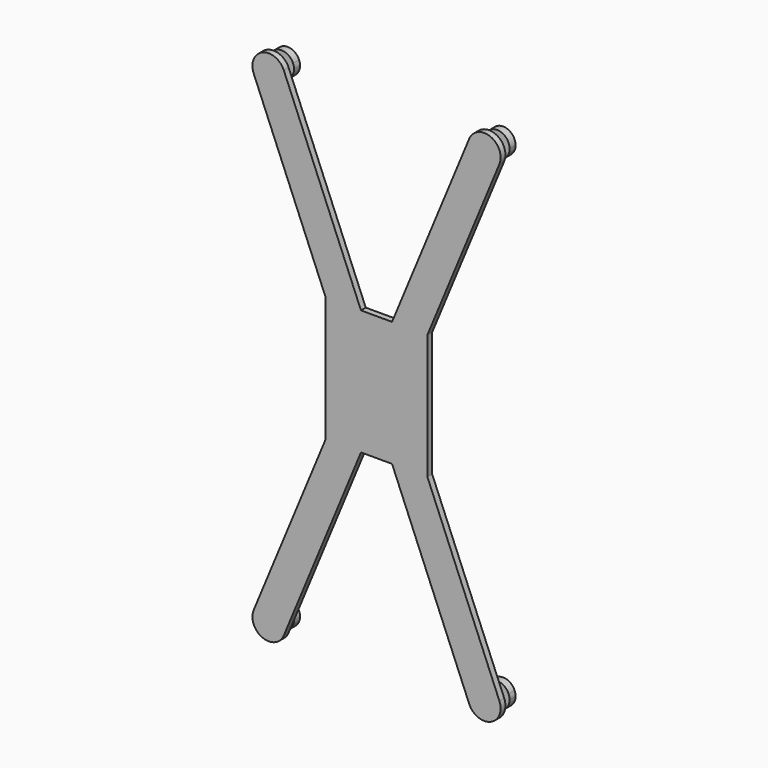
from build123d import *

# Parameters (mm, degrees)
F1_DEPTH = 1.2
F2_DEPTH = 3.5
F3_DEPTH = 2


with BuildPart() as f1:
    # F0 (on Front) → F1 (new body)
    with BuildSketch(Plane.XZ):
        with BuildLine():
            ThreePointArc((-19.2441250379, 49.4567085809), (-22.5105324501, 50.8096988313), (-23.8635227004, 47.5432914191))
            Line((-23.8635227004, 47.5432914191), (-22.1081515887, 48.2703899406))
            ThreePointArc((-22.1081515887, 48.2703899406), (-21.7834339286, 49.0543277195), (-20.9994961497, 48.7296100594))
            Line((-20.9994961497, 48.7296100594), (-19.2441250379, 49.4567085809))
        make_face()
        with BuildLine():
            Line((-22.1081515887, 48.2703899406), (-23.8635227004, 47.5432914191))
            ThreePointArc((-23.8635227004, 47.5432914191), (-21.0660980641, 46.048036799), (-19.0538238692, 48.5))
            ThreePointArc((-19.0538238692, 48.5), (-19.1018606682, 48.987725805), (-19.2441250379, 49.4567085809))
            Line((-19.2441250379, 49.4567085809), (-20.9994961497, 48.7296100594))
            ThreePointArc((-20.9994961497, 48.7296100594), (-20.9653527009, 48.6170541932), (-20.9538238692, 48.5))
            ThreePointArc((-20.9538238692, 48.5), (-21.436769676, 47.9115288318), (-22.1081515887, 48.2703899406))
        make_face()
        with BuildLine():
            Line((-20.9994961497, 48.7296100594), (-22.1081515887, 48.2703899406))
            ThreePointArc((-22.1081515887, 48.2703899406), (-21.436769676, 47.9115288318), (-20.9538238692, 48.5))
            ThreePointArc((-20.9538238692, 48.5), (-20.9653527009, 48.6170541932), (-20.9994961497, 48.7296100594))
        make_face()
        with BuildLine():
            ThreePointArc((-20.9994961497, 48.7296100594), (-21.7834339286, 49.0543277195), (-22.1081515887, 48.2703899406))
            Line((-22.1081515887, 48.2703899406), (-20.9994961497, 48.7296100594))
        make_face()
        with BuildLine():
            ThreePointArc((22.1538238692, 48.5), (21.6708780624, 49.0884711682), (20.9994961497, 48.7296100594))
            Line((20.9994961497, 48.7296100594), (22.1081515887, 48.2703899406))
            ThreePointArc((22.1081515887, 48.2703899406), (22.1422950374, 48.3829458068), (22.1538238692, 48.5))
        make_face()
        with BuildLine():
            ThreePointArc((24.0538238692, 48.5), (22.0415496742, 50.951963201), (19.2441250379, 49.4567085809))
            Line((19.2441250379, 49.4567085809), (20.9994961497, 48.7296100594))
            ThreePointArc((20.9994961497, 48.7296100594), (21.6708780624, 49.0884711682), (22.1538238692, 48.5))
            ThreePointArc((22.1538238692, 48.5), (22.1422950374, 48.3829458068), (22.1081515887, 48.2703899406))
            Line((22.1081515887, 48.2703899406), (23.8635227004, 47.5432914191))
            ThreePointArc((23.8635227004, 47.5432914191), (24.0057870702, 48.012274195), (24.0538238692, 48.5))
        make_face()
        with BuildLine():
            Line((20.9994961497, 48.7296100594), (19.2441250379, 49.4567085809))
            ThreePointArc((19.2441250379, 49.4567085809), (20.5971152882, 46.1903011687), (23.8635227004, 47.5432914191))
            Line((23.8635227004, 47.5432914191), (22.1081515887, 48.2703899406))
            ThreePointArc((22.1081515887, 48.2703899406), (21.3242138097, 47.9456722805), (20.9994961497, 48.7296100594))
        make_face()
        with BuildLine():
            Line((22.1081515887, 48.2703899406), (20.9994961497, 48.7296100594))
            ThreePointArc((20.9994961497, 48.7296100594), (21.3242138097, 47.9456722805), (22.1081515887, 48.2703899406))
        make_face()
        with BuildLine():
            Line((-22.1081515887, -48.2703899406), (-23.8635227004, -47.5432914191))
            ThreePointArc((-23.8635227004, -47.5432914191), (-22.5105324501, -50.8096988313), (-19.2441250379, -49.4567085809))
            Line((-19.2441250379, -49.4567085809), (-20.9994961497, -48.7296100594))
            ThreePointArc((-20.9994961497, -48.7296100594), (-21.7834339286, -49.0543277195), (-22.1081515887, -48.2703899406))
        make_face()
        with BuildLine():
            Line((-20.9994961497, -48.7296100594), (-22.1081515887, -48.2703899406))
            ThreePointArc((-22.1081515887, -48.2703899406), (-21.7834339286, -49.0543277195), (-20.9994961497, -48.7296100594))
        make_face()
        with BuildLine():
            ThreePointArc((-20.9538238692, -48.5), (-21.436769676, -47.9115288318), (-22.1081515887, -48.2703899406))
            Line((-22.1081515887, -48.2703899406), (-20.9994961497, -48.7296100594))
            ThreePointArc((-20.9994961497, -48.7296100594), (-20.9653527009, -48.6170541932), (-20.9538238692, -48.5))
        make_face()
        with BuildLine():
            ThreePointArc((-19.0538238692, -48.5), (-21.0660980641, -46.048036799), (-23.8635227004, -47.5432914191))
            Line((-23.8635227004, -47.5432914191), (-22.1081515887, -48.2703899406))
            ThreePointArc((-22.1081515887, -48.2703899406), (-21.436769676, -47.9115288318), (-20.9538238692, -48.5))
            ThreePointArc((-20.9538238692, -48.5), (-20.9653527009, -48.6170541932), (-20.9994961497, -48.7296100594))
            Line((-20.9994961497, -48.7296100594), (-19.2441250379, -49.4567085809))
            ThreePointArc((-19.2441250379, -49.4567085809), (-19.1018606682, -48.987725805), (-19.0538238692, -48.5))
        make_face()
        with BuildLine():
            ThreePointArc((23.8635227004, -47.5432914191), (20.5971152882, -46.1903011687), (19.2441250379, -49.4567085809))
            Line((19.2441250379, -49.4567085809), (20.9994961497, -48.7296100594))
            ThreePointArc((20.9994961497, -48.7296100594), (21.3242138097, -47.9456722805), (22.1081515887, -48.2703899406))
            Line((22.1081515887, -48.2703899406), (23.8635227004, -47.5432914191))
        make_face()
        with BuildLine():
            Line((20.9994961497, -48.7296100594), (19.2441250379, -49.4567085809))
            ThreePointArc((19.2441250379, -49.4567085809), (22.0415496742, -50.951963201), (24.0538238692, -48.5))
            ThreePointArc((24.0538238692, -48.5), (24.0057870702, -48.012274195), (23.8635227004, -47.5432914191))
            Line((23.8635227004, -47.5432914191), (22.1081515887, -48.2703899406))
            ThreePointArc((22.1081515887, -48.2703899406), (22.1422950374, -48.3829458068), (22.1538238692, -48.5))
            ThreePointArc((22.1538238692, -48.5), (21.6708780624, -49.0884711682), (20.9994961497, -48.7296100594))
        make_face()
        with BuildLine():
            Line((22.1081515887, -48.2703899406), (20.9994961497, -48.7296100594))
            ThreePointArc((20.9994961497, -48.7296100594), (21.6708780624, -49.0884711682), (22.1538238692, -48.5))
            ThreePointArc((22.1538238692, -48.5), (22.1422950374, -48.3829458068), (22.1081515887, -48.2703899406))
        make_face()
        with BuildLine():
            ThreePointArc((22.1081515887, -48.2703899406), (21.3242138097, -47.9456722805), (20.9994961497, -48.7296100594))
            Line((20.9994961497, -48.7296100594), (22.1081515887, -48.2703899406))
        make_face()
        Polygon((-10.1776695297, 12.5), (-5, 0), (-10.1776695297, -12.5), (-3.1066017178, -12.5), (0, -5), (3.1066017178, -12.5), (10.1776695297, -12.5), (5, 0), (10.1776695297, 12.5), (3.1066017178, 12.5), (0, 5), (-3.1066017178, 12.5), align=None)
        with BuildLine():
            Line((-24.5715908221, 47.25), (-10.1776695297, 12.5))
            Line((-10.1776695297, 12.5), (-3.1066017178, 12.5))
            Line((-3.1066017178, 12.5), (-18.5360569162, 49.75))
            Line((-18.5360569162, 49.75), (-19.2441250379, 49.4567085809))
            ThreePointArc((-19.2441250379, 49.4567085809), (-19.1018606682, 48.987725805), (-19.0538238692, 48.5))
            ThreePointArc((-19.0538238692, 48.5), (-21.0660980641, 46.048036799), (-23.8635227004, 47.5432914191))
            Line((-23.8635227004, 47.5432914191), (-24.5715908221, 47.25))
        make_face()
        with BuildLine():
            ThreePointArc((-18.5360569162, 49.75), (-22.8038238692, 51.517766953), (-24.5715908221, 47.25))
            Line((-24.5715908221, 47.25), (-23.8635227004, 47.5432914191))
            ThreePointArc((-23.8635227004, 47.5432914191), (-22.5105324501, 50.8096988313), (-19.2441250379, 49.4567085809))
            Line((-19.2441250379, 49.4567085809), (-18.5360569162, 49.75))
        make_face()
        with BuildLine():
            ThreePointArc((24.5715908221, 47.25), (22.8038238692, 51.517766953), (18.5360569162, 49.75))
            Line((18.5360569162, 49.75), (19.2441250379, 49.4567085809))
            ThreePointArc((19.2441250379, 49.4567085809), (22.0415496742, 50.951963201), (24.0538238692, 48.5))
            ThreePointArc((24.0538238692, 48.5), (24.0057870702, 48.012274195), (23.8635227004, 47.5432914191))
            Line((23.8635227004, 47.5432914191), (24.5715908221, 47.25))
        make_face()
        with BuildLine():
            Line((-23.8635227004, -47.5432914191), (-24.5715908221, -47.25))
            ThreePointArc((-24.5715908221, -47.25), (-22.8038238692, -51.517766953), (-18.5360569162, -49.75))
            Line((-18.5360569162, -49.75), (-19.2441250379, -49.4567085809))
            ThreePointArc((-19.2441250379, -49.4567085809), (-22.5105324501, -50.8096988313), (-23.8635227004, -47.5432914191))
        make_face()
        with BuildLine():
            Line((19.2441250379, -49.4567085809), (18.5360569162, -49.75))
            ThreePointArc((18.5360569162, -49.75), (22.8038238692, -51.517766953), (24.5715908221, -47.25))
            Line((24.5715908221, -47.25), (23.8635227004, -47.5432914191))
            ThreePointArc((23.8635227004, -47.5432914191), (24.0057870702, -48.012274195), (24.0538238692, -48.5))
            ThreePointArc((24.0538238692, -48.5), (22.0415496742, -50.951963201), (19.2441250379, -49.4567085809))
        make_face()
        Polygon((-10.1776695297, -12.5), (-5, 0), (-10.1776695297, 12.5), align=None)
        Polygon((-10.1776695297, 12.5), (-5, 0), (-10.1776695297, -12.5), (-3.1066017178, -12.5), (0, -5), (3.1066017178, -12.5), (10.1776695297, -12.5), (5, 0), (10.1776695297, 12.5), (3.1066017178, 12.5), (0, 5), (-3.1066017178, 12.5), align=None)
        Polygon((3.1066017178, 12.5), (-3.1066017178, 12.5), (0, 5), align=None)
        with BuildLine():
            Line((18.5360569162, 49.75), (3.1066017178, 12.5))
            Line((3.1066017178, 12.5), (10.1776695297, 12.5))
            Line((10.1776695297, 12.5), (24.5715908221, 47.25))
            Line((24.5715908221, 47.25), (23.8635227004, 47.5432914191))
            ThreePointArc((23.8635227004, 47.5432914191), (20.5971152882, 46.1903011687), (19.2441250379, 49.4567085809))
            Line((19.2441250379, 49.4567085809), (18.5360569162, 49.75))
        make_face()
        Polygon((10.1776695297, -12.5), (10.1776695297, 12.5), (5, 0), align=None)
        Polygon((0, -5), (-3.1066017178, -12.5), (3.1066017178, -12.5), align=None)
        with BuildLine():
            Line((10.1776695297, -12.5), (3.1066017178, -12.5))
            Line((3.1066017178, -12.5), (18.5360569162, -49.75))
            Line((18.5360569162, -49.75), (19.2441250379, -49.4567085809))
            ThreePointArc((19.2441250379, -49.4567085809), (20.5971152882, -46.1903011687), (23.8635227004, -47.5432914191))
            Line((23.8635227004, -47.5432914191), (24.5715908221, -47.25))
            Line((24.5715908221, -47.25), (10.1776695297, -12.5))
        make_face()
        with BuildLine():
            Line((-3.1066017178, -12.5), (-10.1776695297, -12.5))
            Line((-10.1776695297, -12.5), (-24.5715908221, -47.25))
            Line((-24.5715908221, -47.25), (-23.8635227004, -47.5432914191))
            ThreePointArc((-23.8635227004, -47.5432914191), (-21.0660980641, -46.048036799), (-19.0538238692, -48.5))
            ThreePointArc((-19.0538238692, -48.5), (-19.1018606682, -48.987725805), (-19.2441250379, -49.4567085809))
            Line((-19.2441250379, -49.4567085809), (-18.5360569162, -49.75))
            Line((-18.5360569162, -49.75), (-3.1066017178, -12.5))
        make_face()
    extrude(amount=F1_DEPTH)

    # F0 (on Front) → F2 (join)
    with BuildSketch(Plane.XZ):
        with BuildLine():
            ThreePointArc((24.0538238692, 48.5), (22.0415496742, 50.951963201), (19.2441250379, 49.4567085809))
            Line((19.2441250379, 49.4567085809), (20.9994961497, 48.7296100594))
            ThreePointArc((20.9994961497, 48.7296100594), (21.6708780624, 49.0884711682), (22.1538238692, 48.5))
            ThreePointArc((22.1538238692, 48.5), (22.1422950374, 48.3829458068), (22.1081515887, 48.2703899406))
            Line((22.1081515887, 48.2703899406), (23.8635227004, 47.5432914191))
            ThreePointArc((23.8635227004, 47.5432914191), (24.0057870702, 48.012274195), (24.0538238692, 48.5))
        make_face()
        with BuildLine():
            Line((20.9994961497, 48.7296100594), (19.2441250379, 49.4567085809))
            ThreePointArc((19.2441250379, 49.4567085809), (20.5971152882, 46.1903011687), (23.8635227004, 47.5432914191))
            Line((23.8635227004, 47.5432914191), (22.1081515887, 48.2703899406))
            ThreePointArc((22.1081515887, 48.2703899406), (21.3242138097, 47.9456722805), (20.9994961497, 48.7296100594))
        make_face()
        with BuildLine():
            ThreePointArc((-19.2441250379, 49.4567085809), (-22.5105324501, 50.8096988313), (-23.8635227004, 47.5432914191))
            Line((-23.8635227004, 47.5432914191), (-22.1081515887, 48.2703899406))
            ThreePointArc((-22.1081515887, 48.2703899406), (-21.7834339286, 49.0543277195), (-20.9994961497, 48.7296100594))
            Line((-20.9994961497, 48.7296100594), (-19.2441250379, 49.4567085809))
        make_face()
        with BuildLine():
            Line((-22.1081515887, 48.2703899406), (-23.8635227004, 47.5432914191))
            ThreePointArc((-23.8635227004, 47.5432914191), (-21.0660980641, 46.048036799), (-19.0538238692, 48.5))
            ThreePointArc((-19.0538238692, 48.5), (-19.1018606682, 48.987725805), (-19.2441250379, 49.4567085809))
            Line((-19.2441250379, 49.4567085809), (-20.9994961497, 48.7296100594))
            ThreePointArc((-20.9994961497, 48.7296100594), (-20.9653527009, 48.6170541932), (-20.9538238692, 48.5))
            ThreePointArc((-20.9538238692, 48.5), (-21.436769676, 47.9115288318), (-22.1081515887, 48.2703899406))
        make_face()
        with BuildLine():
            ThreePointArc((-19.0538238692, -48.5), (-21.0660980641, -46.048036799), (-23.8635227004, -47.5432914191))
            Line((-23.8635227004, -47.5432914191), (-22.1081515887, -48.2703899406))
            ThreePointArc((-22.1081515887, -48.2703899406), (-21.436769676, -47.9115288318), (-20.9538238692, -48.5))
            ThreePointArc((-20.9538238692, -48.5), (-20.9653527009, -48.6170541932), (-20.9994961497, -48.7296100594))
            Line((-20.9994961497, -48.7296100594), (-19.2441250379, -49.4567085809))
            ThreePointArc((-19.2441250379, -49.4567085809), (-19.1018606682, -48.987725805), (-19.0538238692, -48.5))
        make_face()
        with BuildLine():
            Line((-22.1081515887, -48.2703899406), (-23.8635227004, -47.5432914191))
            ThreePointArc((-23.8635227004, -47.5432914191), (-22.5105324501, -50.8096988313), (-19.2441250379, -49.4567085809))
            Line((-19.2441250379, -49.4567085809), (-20.9994961497, -48.7296100594))
            ThreePointArc((-20.9994961497, -48.7296100594), (-21.7834339286, -49.0543277195), (-22.1081515887, -48.2703899406))
        make_face()
        with BuildLine():
            Line((20.9994961497, -48.7296100594), (19.2441250379, -49.4567085809))
            ThreePointArc((19.2441250379, -49.4567085809), (22.0415496742, -50.951963201), (24.0538238692, -48.5))
            ThreePointArc((24.0538238692, -48.5), (24.0057870702, -48.012274195), (23.8635227004, -47.5432914191))
            Line((23.8635227004, -47.5432914191), (22.1081515887, -48.2703899406))
            ThreePointArc((22.1081515887, -48.2703899406), (22.1422950374, -48.3829458068), (22.1538238692, -48.5))
            ThreePointArc((22.1538238692, -48.5), (21.6708780624, -49.0884711682), (20.9994961497, -48.7296100594))
        make_face()
        with BuildLine():
            ThreePointArc((23.8635227004, -47.5432914191), (20.5971152882, -46.1903011687), (19.2441250379, -49.4567085809))
            Line((19.2441250379, -49.4567085809), (20.9994961497, -48.7296100594))
            ThreePointArc((20.9994961497, -48.7296100594), (21.3242138097, -47.9456722805), (22.1081515887, -48.2703899406))
            Line((22.1081515887, -48.2703899406), (23.8635227004, -47.5432914191))
        make_face()
        with BuildLine():
            Line((22.1081515887, -48.2703899406), (20.9994961497, -48.7296100594))
            ThreePointArc((20.9994961497, -48.7296100594), (21.6708780624, -49.0884711682), (22.1538238692, -48.5))
            ThreePointArc((22.1538238692, -48.5), (22.1422950374, -48.3829458068), (22.1081515887, -48.2703899406))
        make_face()
        with BuildLine():
            ThreePointArc((22.1081515887, -48.2703899406), (21.3242138097, -47.9456722805), (20.9994961497, -48.7296100594))
            Line((20.9994961497, -48.7296100594), (22.1081515887, -48.2703899406))
        make_face()
        with BuildLine():
            ThreePointArc((22.1538238692, 48.5), (21.6708780624, 49.0884711682), (20.9994961497, 48.7296100594))
            Line((20.9994961497, 48.7296100594), (22.1081515887, 48.2703899406))
            ThreePointArc((22.1081515887, 48.2703899406), (22.1422950374, 48.3829458068), (22.1538238692, 48.5))
        make_face()
        with BuildLine():
            Line((22.1081515887, 48.2703899406), (20.9994961497, 48.7296100594))
            ThreePointArc((20.9994961497, 48.7296100594), (21.3242138097, 47.9456722805), (22.1081515887, 48.2703899406))
        make_face()
        with BuildLine():
            Line((-20.9994961497, 48.7296100594), (-22.1081515887, 48.2703899406))
            ThreePointArc((-22.1081515887, 48.2703899406), (-21.436769676, 47.9115288318), (-20.9538238692, 48.5))
            ThreePointArc((-20.9538238692, 48.5), (-20.9653527009, 48.6170541932), (-20.9994961497, 48.7296100594))
        make_face()
        with BuildLine():
            ThreePointArc((-20.9994961497, 48.7296100594), (-21.7834339286, 49.0543277195), (-22.1081515887, 48.2703899406))
            Line((-22.1081515887, 48.2703899406), (-20.9994961497, 48.7296100594))
        make_face()
        with BuildLine():
            ThreePointArc((-20.9538238692, -48.5), (-21.436769676, -47.9115288318), (-22.1081515887, -48.2703899406))
            Line((-22.1081515887, -48.2703899406), (-20.9994961497, -48.7296100594))
            ThreePointArc((-20.9994961497, -48.7296100594), (-20.9653527009, -48.6170541932), (-20.9538238692, -48.5))
        make_face()
        with BuildLine():
            Line((-20.9994961497, -48.7296100594), (-22.1081515887, -48.2703899406))
            ThreePointArc((-22.1081515887, -48.2703899406), (-21.7834339286, -49.0543277195), (-20.9994961497, -48.7296100594))
        make_face()
    extrude(amount=-F2_DEPTH)

    # F0 (on Front) → F3 (cut)
    with BuildSketch(Plane.XZ):
        with BuildLine():
            ThreePointArc((-19.2441250379, 49.4567085809), (-22.5105324501, 50.8096988313), (-23.8635227004, 47.5432914191))
            Line((-23.8635227004, 47.5432914191), (-22.1081515887, 48.2703899406))
            ThreePointArc((-22.1081515887, 48.2703899406), (-21.7834339286, 49.0543277195), (-20.9994961497, 48.7296100594))
            Line((-20.9994961497, 48.7296100594), (-19.2441250379, 49.4567085809))
        make_face()
        with BuildLine():
            Line((-22.1081515887, 48.2703899406), (-23.8635227004, 47.5432914191))
            ThreePointArc((-23.8635227004, 47.5432914191), (-21.0660980641, 46.048036799), (-19.0538238692, 48.5))
            ThreePointArc((-19.0538238692, 48.5), (-19.1018606682, 48.987725805), (-19.2441250379, 49.4567085809))
            Line((-19.2441250379, 49.4567085809), (-20.9994961497, 48.7296100594))
            ThreePointArc((-20.9994961497, 48.7296100594), (-20.9653527009, 48.6170541932), (-20.9538238692, 48.5))
            ThreePointArc((-20.9538238692, 48.5), (-21.436769676, 47.9115288318), (-22.1081515887, 48.2703899406))
        make_face()
        with BuildLine():
            ThreePointArc((24.0538238692, 48.5), (22.0415496742, 50.951963201), (19.2441250379, 49.4567085809))
            Line((19.2441250379, 49.4567085809), (20.9994961497, 48.7296100594))
            ThreePointArc((20.9994961497, 48.7296100594), (21.6708780624, 49.0884711682), (22.1538238692, 48.5))
            ThreePointArc((22.1538238692, 48.5), (22.1422950374, 48.3829458068), (22.1081515887, 48.2703899406))
            Line((22.1081515887, 48.2703899406), (23.8635227004, 47.5432914191))
            ThreePointArc((23.8635227004, 47.5432914191), (24.0057870702, 48.012274195), (24.0538238692, 48.5))
        make_face()
        with BuildLine():
            Line((20.9994961497, 48.7296100594), (19.2441250379, 49.4567085809))
            ThreePointArc((19.2441250379, 49.4567085809), (20.5971152882, 46.1903011687), (23.8635227004, 47.5432914191))
            Line((23.8635227004, 47.5432914191), (22.1081515887, 48.2703899406))
            ThreePointArc((22.1081515887, 48.2703899406), (21.3242138097, 47.9456722805), (20.9994961497, 48.7296100594))
        make_face()
        with BuildLine():
            ThreePointArc((23.8635227004, -47.5432914191), (20.5971152882, -46.1903011687), (19.2441250379, -49.4567085809))
            Line((19.2441250379, -49.4567085809), (20.9994961497, -48.7296100594))
            ThreePointArc((20.9994961497, -48.7296100594), (21.3242138097, -47.9456722805), (22.1081515887, -48.2703899406))
            Line((22.1081515887, -48.2703899406), (23.8635227004, -47.5432914191))
        make_face()
        with BuildLine():
            Line((20.9994961497, -48.7296100594), (19.2441250379, -49.4567085809))
            ThreePointArc((19.2441250379, -49.4567085809), (22.0415496742, -50.951963201), (24.0538238692, -48.5))
            ThreePointArc((24.0538238692, -48.5), (24.0057870702, -48.012274195), (23.8635227004, -47.5432914191))
            Line((23.8635227004, -47.5432914191), (22.1081515887, -48.2703899406))
            ThreePointArc((22.1081515887, -48.2703899406), (22.1422950374, -48.3829458068), (22.1538238692, -48.5))
            ThreePointArc((22.1538238692, -48.5), (21.6708780624, -49.0884711682), (20.9994961497, -48.7296100594))
        make_face()
        with BuildLine():
            Line((-22.1081515887, -48.2703899406), (-23.8635227004, -47.5432914191))
            ThreePointArc((-23.8635227004, -47.5432914191), (-22.5105324501, -50.8096988313), (-19.2441250379, -49.4567085809))
            Line((-19.2441250379, -49.4567085809), (-20.9994961497, -48.7296100594))
            ThreePointArc((-20.9994961497, -48.7296100594), (-21.7834339286, -49.0543277195), (-22.1081515887, -48.2703899406))
        make_face()
        with BuildLine():
            ThreePointArc((-19.0538238692, -48.5), (-21.0660980641, -46.048036799), (-23.8635227004, -47.5432914191))
            Line((-23.8635227004, -47.5432914191), (-22.1081515887, -48.2703899406))
            ThreePointArc((-22.1081515887, -48.2703899406), (-21.436769676, -47.9115288318), (-20.9538238692, -48.5))
            ThreePointArc((-20.9538238692, -48.5), (-20.9653527009, -48.6170541932), (-20.9994961497, -48.7296100594))
            Line((-20.9994961497, -48.7296100594), (-19.2441250379, -49.4567085809))
            ThreePointArc((-19.2441250379, -49.4567085809), (-19.1018606682, -48.987725805), (-19.0538238692, -48.5))
        make_face()
    extrude(amount=-F3_DEPTH, mode=Mode.SUBTRACT)


solid = f1.part
